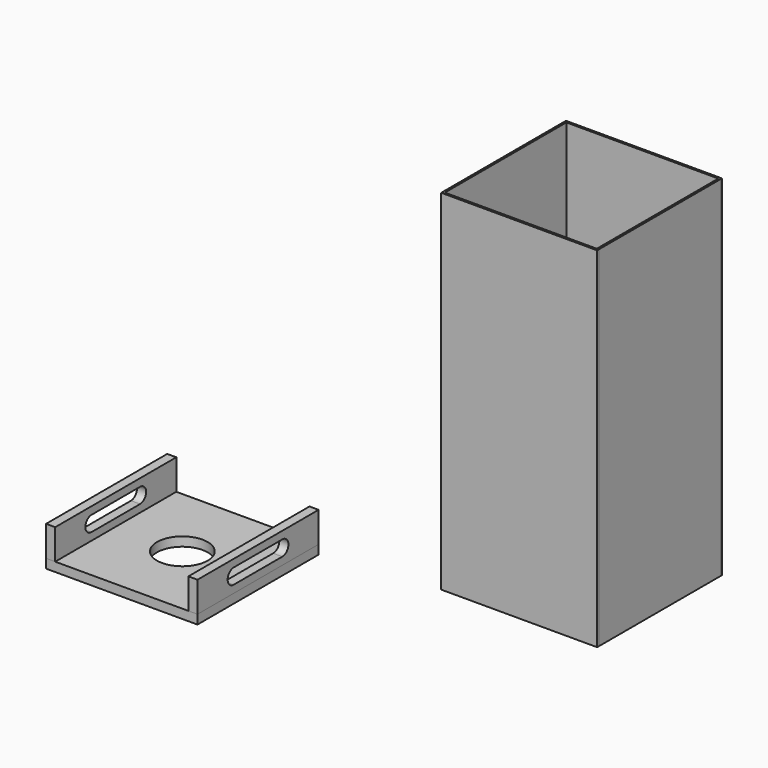
from build123d import *

# Parameters (mm, degrees)
F1_W     = 4
F1_H     = 300
F1_H_2   = 4
F2_DEPTH = 690
F1_W_2   = 300
F3_DEPTH = 690
F4_DEPTH = 19
F5_W     = 18
F5_H     = 299
F5_W_2   = 263
F5_R     = 50
F6_DEPTH = 18
F7_DEPTH = 60
F9_DEPTH = 299.001


with BuildPart() as f2:
    # F1 (on Top) → F2 (new body)
    with BuildSketch(Plane.XY):
        with Locations((2, 154)):
            Rectangle(F1_W, F1_H)
        with Locations((2, 306)):
            Rectangle(F1_W, F1_H_2)
        with Locations((2, 2)):
            Rectangle(F1_W, F1_H_2)
    extrude(amount=F2_DEPTH)


with BuildPart() as f2b:
    # F1 (on Top) → F2, piece 2 (new body)
    with BuildSketch(Plane.XY):
        with Locations((306, 154)):
            Rectangle(F1_W, F1_H)
        with Locations((306, 306)):
            Rectangle(F1_W, F1_H_2)
        with Locations((306, 2)):
            Rectangle(F1_W, F1_H_2)
    extrude(amount=F2_DEPTH)


with BuildPart() as f3:
    # F1 (on Top) → F3 (new body)
    with BuildSketch(Plane.XY):
        with Locations((154, 2)):
            Rectangle(F1_W_2, F1_H_2)
        with Locations((2, 2)):
            Rectangle(F1_W, F1_H_2)
        with Locations((306, 2)):
            Rectangle(F1_W, F1_H_2)
    extrude(amount=F3_DEPTH)


with BuildPart() as f3b:
    # F1 (on Top) → F3, piece 2 (new body)
    with BuildSketch(Plane.XY):
        with Locations((306, 306)):
            Rectangle(F1_W, F1_H_2)
        with Locations((154, 306)):
            Rectangle(F1_W_2, F1_H_2)
        with Locations((2, 306)):
            Rectangle(F1_W, F1_H_2)
    extrude(amount=F3_DEPTH)


with BuildPart() as f4:
    # F1 (on Top) → F4 (new body)
    with BuildSketch(Plane.XY):
        with Locations((154, 154)):
            Rectangle(F1_W_2, F1_H)
    extrude(amount=F4_DEPTH)


with BuildPart() as f6:
    # F5 (on Top) → F6 (new body)
    with BuildSketch(Plane.XY):
        with Locations((-532.1781668663, -149.5)):
            Rectangle(F5_W, F5_H)
        with Locations((-391.6781668663, -149.5)):
            Rectangle(F5_W_2, F5_H)
        with Locations((-391.6781668663, -149.5)):
            Circle(F5_R, mode=Mode.SUBTRACT)
        with Locations((-251.1781668663, -149.5)):
            Rectangle(F5_W, F5_H)
        with Locations((-391.6781668663, -149.5)):
            Rectangle(F5_W_2, F5_H)
        with Locations((-391.6781668663, -149.5)):
            Circle(F5_R, mode=Mode.SUBTRACT)
    extrude(amount=-F6_DEPTH)


with BuildPart() as f7:
    # F5 (on Top) → F7 (new body)
    with BuildSketch(Plane.XY):
        with Locations((-532.1781668663, -149.5)):
            Rectangle(F5_W, F5_H)
    extrude(amount=F7_DEPTH)


with BuildPart() as f7b:
    # F5 (on Top) → F7, piece 2 (new body)
    with BuildSketch(Plane.XY):
        with Locations((-251.1781668663, -149.5)):
            Rectangle(F5_W, F5_H)
    extrude(amount=F7_DEPTH)


with BuildPart() as f9_tool:
    # F8 (on face) → F9 (new body, through all)
    with BuildSketch(Plane.YZ.offset(-242.1781668663)):
        with BuildLine():
            Line((-89.5, 45), (-209.5, 45))
            ThreePointArc((-209.5, 45), (-224.5, 30), (-209.5, 15))
            Line((-209.5, 15), (-89.5, 15))
            ThreePointArc((-89.5, 15), (-74.5, 30), (-89.5, 45))
        make_face()
    extrude(amount=-F9_DEPTH)


with BuildPart() as f7_1:
    add(f7.part)

    # F9: cut by f9_tool
    add(f9_tool.part, mode=Mode.SUBTRACT)


with BuildPart() as f7b_1:
    add(f7b.part)

    # F9: cut by f9_tool
    add(f9_tool.part, mode=Mode.SUBTRACT)


solid = Compound([f2.part, f2b.part, f3.part, f3b.part, f4.part, f6.part, f7_1.part, f7b_1.part])
